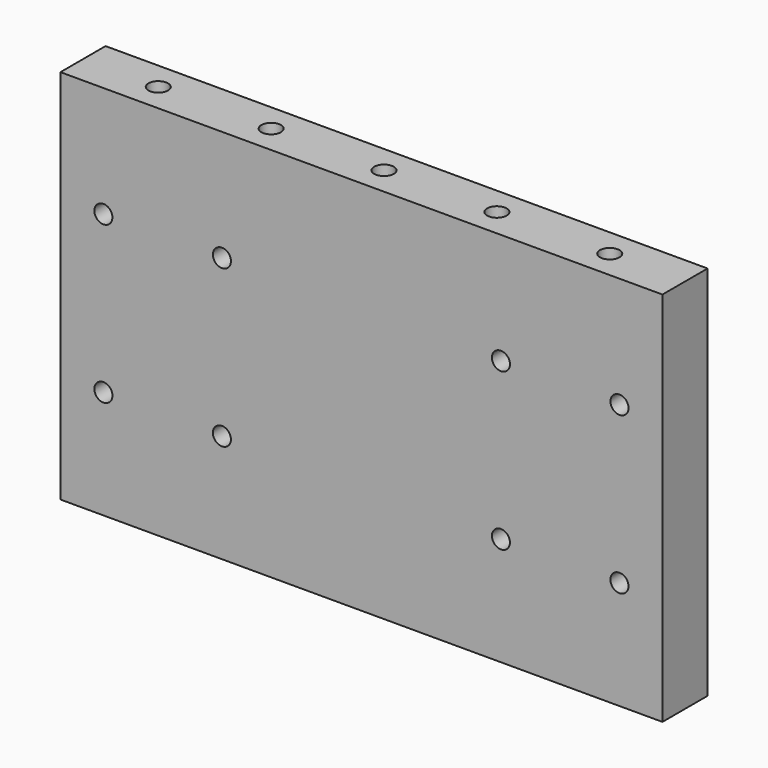
from build123d import *

# Parameters (mm, degrees)
F0_W      = 203.2
F0_H      = 127
F1_DEPTH  = 19.05
F2_R      = 3.048
F3_DEPTH  = 19.051
F4_R      = 3.302
F5_DEPTH  = 12.7
F7_R      = 3.302
F8_DEPTH  = 12.7
F9_R      = 5.461
F10_DEPTH = 3.81


with BuildPart() as f1:
    # F0 (on Front) → F1 (new body)
    with BuildSketch(Plane.XZ):
        Rectangle(F0_W, F0_H)
    extrude(amount=F1_DEPTH)

    # F2 (on face) → F3 (cut, through all)
    with BuildSketch(Plane.XZ.offset(19.05)):
        with Locations((-87.0966, 26.035)):
            Circle(F2_R)
        with Locations((-47.0916, 26.035)):
            Circle(F2_R)
        with Locations((-87.0966, -26.924)):
            Circle(F2_R)
        with Locations((-47.0916, -26.924)):
            Circle(F2_R)
        with Locations((47.0916, -26.924)):
            Circle(F2_R)
        with Locations((47.0916, 26.035)):
            Circle(F2_R)
        with Locations((87.0966, 26.035)):
            Circle(F2_R)
        with Locations((87.0966, -26.924)):
            Circle(F2_R)
    extrude(amount=-F3_DEPTH, mode=Mode.SUBTRACT)

    # F4 (on face) → F5 (cut)
    with BuildSketch(Plane.XY.offset(63.5)):
        with Locations((-76.2, -9.525)):
            Circle(F4_R)
        with Locations((-38.1, -9.525)):
            Circle(F4_R)
        with Locations((0, -9.525)):
            Circle(F4_R)
        with Locations((38.1, -9.525)):
            Circle(F4_R)
        with Locations((76.2, -9.525)):
            Circle(F4_R)
    extrude(amount=-F5_DEPTH, mode=Mode.SUBTRACT)

    # F7 (on face) → F8 (cut)
    with BuildSketch(Plane(origin=(0, 0, -63.5), x_dir=(1, 0, 0), z_dir=(0, 0, -1))):
        with Locations((-76.2, 9.525)):
            Circle(F7_R)
        with Locations((-38.1, 9.525)):
            Circle(F7_R)
        with Locations((0, 9.525)):
            Circle(F7_R)
        with Locations((38.1, 9.525)):
            Circle(F7_R)
        with Locations((76.2, 9.525)):
            Circle(F7_R)
    extrude(amount=-F8_DEPTH, mode=Mode.SUBTRACT)

    # F9 (on face) → F10 (cut)
    with BuildSketch(Plane(origin=(0, 0, 0), x_dir=(-1, 0, 0), z_dir=(0, 1, 0))):
        with Locations((-47.0916, 26.035)):
            Circle(F9_R)
        with Locations((-87.0966, 26.035)):
            Circle(F9_R)
        with Locations((-87.0966, -26.924)):
            Circle(F9_R)
        with Locations((-47.0916, -26.924)):
            Circle(F9_R)
        with Locations((47.0916, -26.924)):
            Circle(F9_R)
        with Locations((87.0966, -26.924)):
            Circle(F9_R)
        with Locations((87.0966, 26.035)):
            Circle(F9_R)
        with Locations((47.0916, 26.035)):
            Circle(F9_R)
    extrude(amount=-F10_DEPTH, mode=Mode.SUBTRACT)


solid = f1.part
